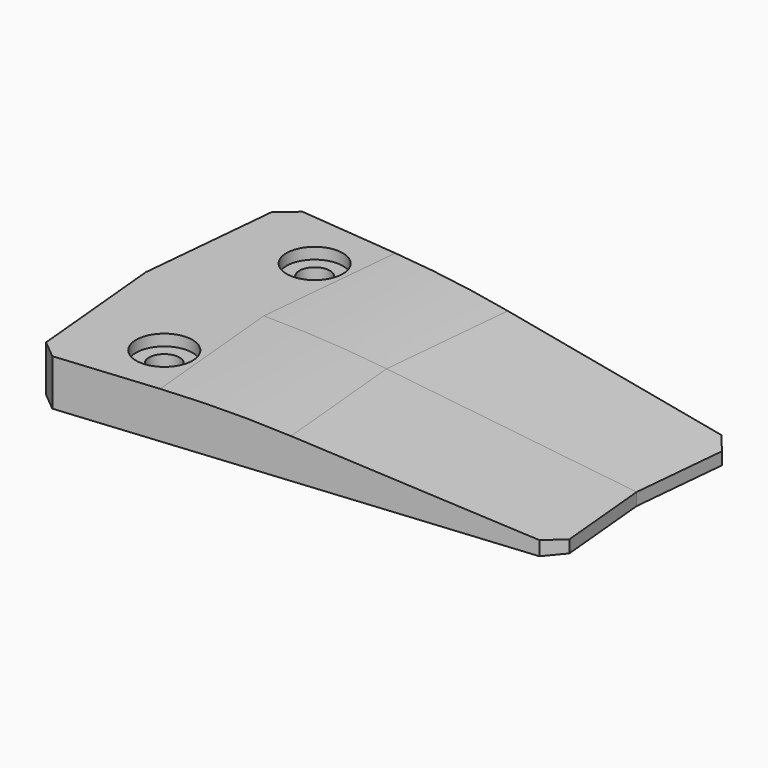
from build123d import *

# Parameters (mm, degrees)
SKETCH004_R      = 2.7
PAD003_DEPTH     = 8.2
SKETCH005_R      = 5
POCKET001_DEPTH  = 2
CHAMFER002_SIZE  = 3
CHAMFER003_SIZE2 = 55
CHAMFER003_SIZE  = 6
FILLET_R         = 200
CHAMFER004_SIZE  = 3


with BuildPart() as part:
    # Sketch004 (on XY_Plane003 of Origin006) → Pad003 (new body)
    with BuildSketch(Plane.XY):
        Polygon((268.465729, 19.911931), (182.088478, 28.044908), (179.447869, 0), (266.590892, 0), align=None)
        with Locations((196.085008, 16.682815)):
            Circle(SKETCH004_R, mode=Mode.SUBTRACT)
    extrude(amount=PAD003_DEPTH)

    # Sketch005 (on Face7 of Pad003) → Pocket001 (cut)
    with BuildSketch(Plane.XY.offset(8.2)):
        with Locations((196.085008, 16.682815)):
            Circle(SKETCH005_R)
    extrude(amount=-POCKET001_DEPTH, mode=Mode.SUBTRACT)

    # Chamfer002
    chamfer002_edges = [part.edges().sort_by_distance(p)[0] for p in [
        (182.088478, 28.044908, 4.1),
    ]]
    chamfer(chamfer002_edges, length=CHAMFER002_SIZE)

    # Chamfer003
    chamfer003_edges = [part.edges().sort_by_distance(p)[0] for p in [
        (267.52831, 9.955965, 8.2),
    ]]
    chamfer003_side = part.faces().sort_by_distance((267.52831, 9.955965, 4.1))[0]
    chamfer(chamfer003_edges, length=CHAMFER003_SIZE, length2=CHAMFER003_SIZE2, reference=chamfer003_side)

    # Fillet
    fillet_edges = [part.edges().sort_by_distance(p)[0] for p in [
        (212.527775, 12.533867, 8.2),
    ]]
    fillet(fillet_edges, radius=FILLET_R)

    # Chamfer004
    chamfer004_edges = [part.edges().sort_by_distance(p)[0] for p in [
        (268.465729, 19.911931, 1.1),
    ]]
    chamfer(chamfer004_edges, length=CHAMFER004_SIZE)

    # Mirrored001: part across face of Chamfer004


with BuildPart() as part_1:
    add(part.part)
    add(part.part.mirror(Plane(origin=(215.438972, 0, 3.448187), x_dir=(1, 0, 0), z_dir=(0, -1, 0))))


solid = part_1.part
